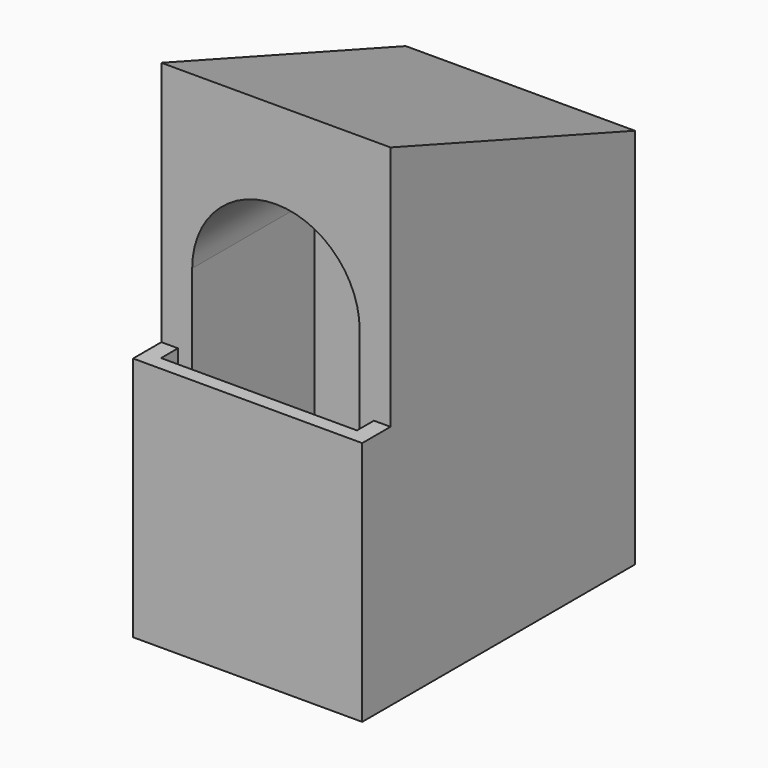
from build123d import *

# Parameters (mm, degrees)
F1_DEPTH      = 5
F3_DEPTH      = 1.5
F3_DEPTH_BACK = 1.5
F5_DEPTH      = 6.23198
F6_DEPTH      = 3.21356


with BuildPart() as f1:
    # F0 (on Top) → F1 (new body)
    with BuildSketch(Plane.XY):
        Polygon((1.5, 2), (-1.5, 2), (-1.5, -2), (-1.282606, -2), (1.282606, -2), (1.5, -2), align=None)
    extrude(amount=F1_DEPTH)

    # F2 (on Right) → F3 (join, two sides)
    with BuildSketch(Plane.YZ) as f3_sk:
        Polygon((-2, 5), (2, 5), (-2, 6.433511), align=None)
    extrude(amount=F3_DEPTH)
    extrude(f3_sk.sketch, amount=-F3_DEPTH_BACK)

    # F4 (on Front) → F5 (cut)
    with BuildSketch(Plane.XZ):
        with BuildLine():
            Line((1.096531, 0), (1.096531, 4.195458))
            ThreePointArc((1.096531, 4.195458), (0, 5.29199), (-1.096531, 4.195458))
            Line((-1.096531, 4.195458), (-1.096531, 0))
            Line((-1.096531, 0), (1.096531, 0))
        make_face()
    extrude(amount=F5_DEPTH, mode=Mode.SUBTRACT)

    # F0 (on Top) → F6 (join)
    with BuildSketch(Plane.XY):
        Polygon((-1.282606, -2), (-1.5, -2), (-1.5, -2.462873), (1.5, -2.462873), (1.5, -2), (1.282606, -2), (1.282606, -2.277132), (-1.282606, -2.277132), align=None)
    extrude(amount=F6_DEPTH)


solid = f1.part
